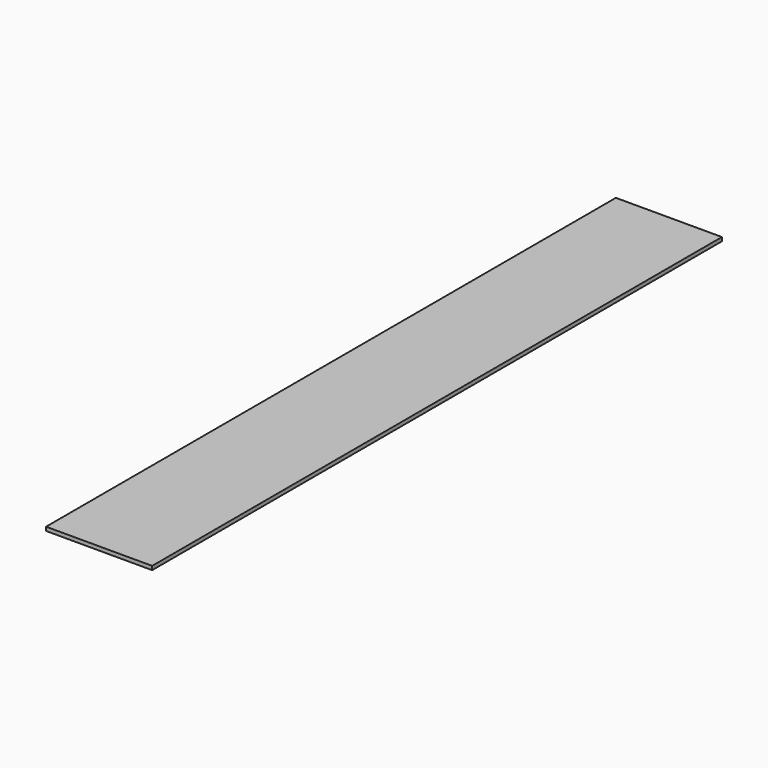
from build123d import *

# Parameters (mm, degrees)
F0_W     = 88.9
F0_H     = 596.9
F1_DEPTH = 3.175
F2_W     = 25.4
F2_H     = 152.4
F3_DEPTH = 6.35


with BuildPart() as f1:
    # F0 (on Top) → F1 (new body)
    with BuildSketch(Plane.XY):
        Rectangle(F0_W, F0_H)
    extrude(amount=-F1_DEPTH)

    # F2 (on face) → F3 (join)
    with BuildSketch(Plane(origin=(0, 0, -3.175), x_dir=(1, 0, 0), z_dir=(0, 0, -1))):
        with Locations((19.05, 152.4)):
            Rectangle(F2_W, F2_H)
        with Locations((19.05, -152.4)):
            Rectangle(F2_W, F2_H)
    extrude(amount=F3_DEPTH)


solid = f1.part
